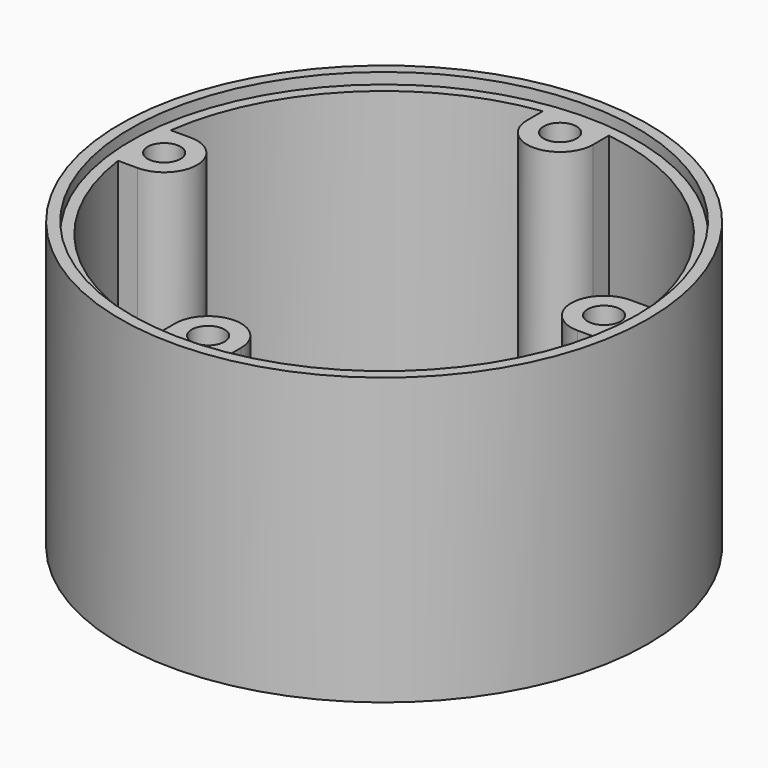
from build123d import *

# Parameters (mm, degrees)
SKETCH002_R        = 1.5
PAD_DEPTH          = 25
POLARPATTERN_COUNT = 4


with BuildPart() as part:
    # Sketch → Revolution (revolve)
    with BuildSketch(Plane.XZ):
        Polygon((24, 0), (24, 26), (23, 26), (23, 25), (22, 25), (22, 0), align=None)
    revolve(axis=Axis((0, 0, 0), (0, 0, 1)))

    # Sketch002 → Pad (new body)
    with BuildSketch(Plane(origin=(0, 0, 25), x_dir=(-1, 0, 0), z_dir=(0, 0, 1))):
        with BuildLine():
            Line((-3, 22), (-3, 20))
            ThreePointArc((-3, 20), (0, 17), (3, 20))
            Line((3, 20), (3, 22))
            Line((-3, 22), (3, 22))
        make_face()
        with Locations((0, 20)):
            Circle(SKETCH002_R, mode=Mode.SUBTRACT)
    pad = extrude(amount=-PAD_DEPTH)

    # PolarPattern: Pad ×4 about axis
    polarpattern_axis = Axis((0, 0, 25), (0, 0, 1))
    for i in range(1, POLARPATTERN_COUNT):
        add(pad.rotate(polarpattern_axis, i * 360 / POLARPATTERN_COUNT))


solid = part.part
